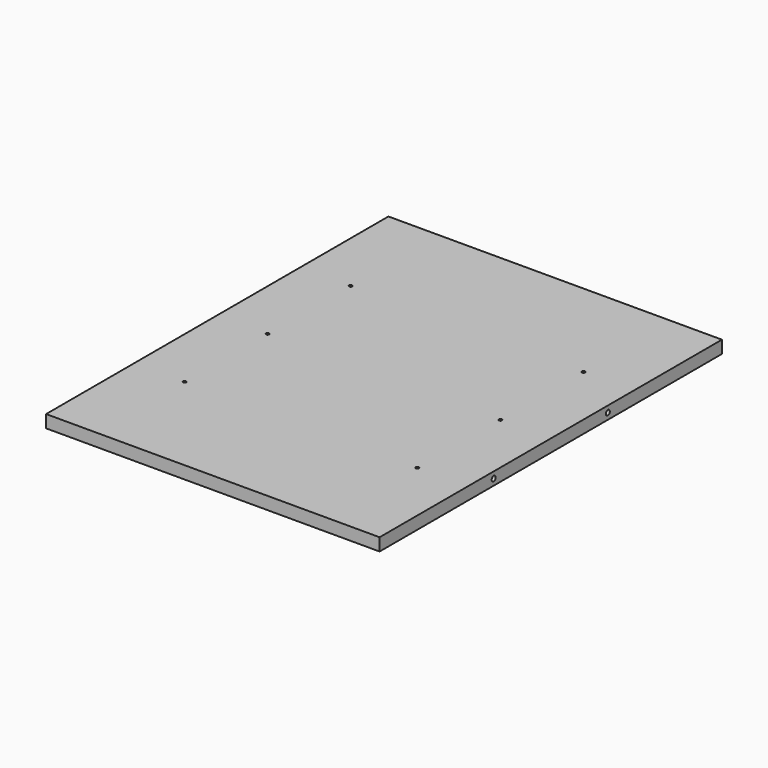
from build123d import *

# Parameters (mm, degrees)
F0_W     = 265
F0_H     = 340
F1_DEPTH = 10
F3_D     = 2.5
F3_DEPTH = 7.5
F3_TIP   = 0.7510757738
F5_D     = 4
F5_DEPTH = 10
F5_TIP   = 1.2017212381


with BuildPart() as f1:
    # F0 (on Top) → F1 (new body)
    with BuildSketch(Plane.XY):
        Rectangle(F0_W, F0_H)
    extrude(amount=-F1_DEPTH)

    # F3
    with Locations(Plane.XY):
        with Locations((-92.5, 82.5), (-92.5, 0), (-92.5, -82.5), (92.5, -82.5), (92.5, 0), (92.5, 82.5)):
            Hole(F3_D / 2, depth=F3_DEPTH)
            with Locations((0, 0, -(F3_DEPTH + F3_TIP / 2))):  # 118° drill point
                Cone(0, F3_D / 2, F3_TIP, mode=Mode.SUBTRACT)

    # F5
    with Locations(Plane.YZ.offset(132.5)):
        with Locations((-56.667, -5), (56.666, -5)):
            Hole(F5_D / 2, depth=F5_DEPTH)
            with Locations((0, 0, -(F5_DEPTH + F5_TIP / 2))):  # 118° drill point
                Cone(0, F5_D / 2, F5_TIP, mode=Mode.SUBTRACT)


solid = f1.part
